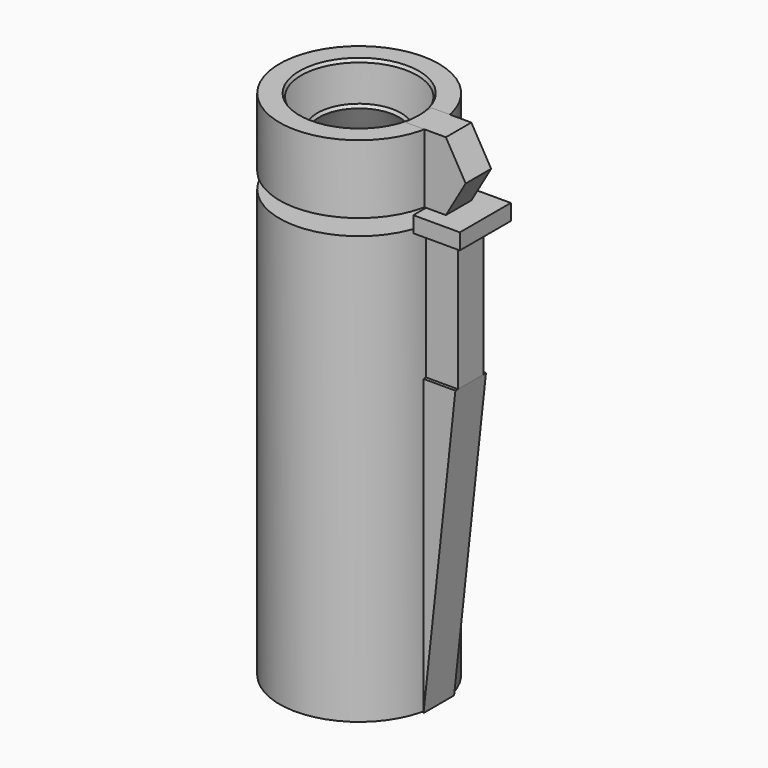
from build123d import *

# Parameters (mm, degrees)
F3_DEPTH = 1.524
F0_W     = 2.54
F0_H     = 10.6366808762
F4_DEPTH = 1.27
F7_DEPTH = 2.54
F5_DEPTH = 1.27
F6_T     = -0.254
F8_R     = 3.8887295668
F9_DEPTH = 1.27


with BuildPart() as f1:
    # F0 (on Front) → F1 (revolve)
    with BuildSketch(Plane.XZ):
        Polygon((0, -19.05), (6.35, -19.05), (6.35, 4.4099774687), (6.35, 15.0466583449), (0, 15.0466583449), align=None)
    revolve(axis=Axis((0, 0, 1.4181472361), (0, 0, -1)))

    # F8 (on face) → F9 (cut)
    with BuildSketch(Plane(origin=(0, 0, -19.05), x_dir=(1, 0, 0), z_dir=(0, 0, -1))):
        Circle(F8_R)
    extrude(amount=-F9_DEPTH, mode=Mode.SUBTRACT)


with BuildPart() as f2:
    # F0 (on Front) → F2 (revolve)
    with BuildSketch(Plane.XZ):
        Polygon((4.7719044596, 16.3166583449), (6.35, 16.3166583449), (6.35, 19.05), (3.1938089192, 19.05), align=None)
        Polygon((4.7719044596, 21.7833416551), (3.1938089192, 19.05), (6.35, 19.05), (6.35, 21.7833416551), align=None)
    revolve(axis=Axis((0, 0, 1.4181472361), (0, 0, -1)))

    # F6
    f6_openings = [f2.faces().sort_by_distance(p)[0] for p in [
        (-3.982857, 0, 20.416671),
    ]]
    offset(amount=F6_T, openings=f6_openings)


with BuildPart() as f3:
    # F0 (on Front) → F3 (new body, symmetric)
    with BuildSketch(Plane.XZ):
        Polygon((6.35, 4.4099774687), (6.35, -19.05), (8.89, 4.4099774687), align=None)
    extrude(amount=F3_DEPTH, both=True)


with BuildPart() as f4:
    # F0 (on Front) → F4 (new body, symmetric)
    with BuildSketch(Plane.XZ):
        with Locations((7.62, 9.7283179068)):
            Rectangle(F0_W, F0_H)
    extrude(amount=F4_DEPTH, both=True)


with BuildPart() as f7:
    # F0 (on Front) → F7 (new body, symmetric)
    with BuildSketch(Plane.XZ):
        Polygon((6.35, 16.3166583449), (6.35, 15.0466583449), (8.89, 15.0466583449), (10.0584103287, 15.0466583449), (10.0584103287, 16.3166583449), (7.9280955404, 16.3166583449), align=None)
    extrude(amount=F7_DEPTH, both=True)


with BuildPart() as f5:
    # F0 (on Front) → F5 (new body, symmetric)
    with BuildSketch(Plane.XZ):
        Polygon((6.35, 19.05), (6.35, 16.3166583449), (7.9280955404, 16.3166583449), (9.5061910808, 19.05), (7.9280955404, 21.7833416551), (6.35, 21.7833416551), align=None)
        Polygon((4.7719044596, 21.7833416551), (3.1938089192, 19.05), (6.35, 19.05), (6.35, 21.7833416551), align=None)
        Polygon((4.7719044596, 16.3166583449), (6.35, 16.3166583449), (6.35, 19.05), (3.1938089192, 19.05), align=None)
    extrude(amount=F5_DEPTH, both=True)


solid = Compound([f1.part, f2.part, f3.part, f4.part, f7.part, f5.part])
